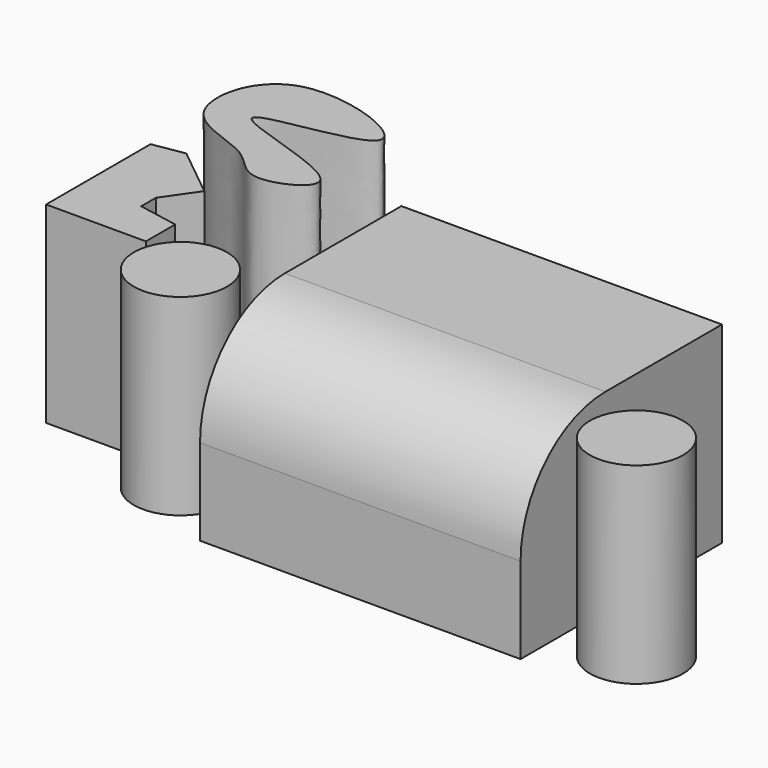
from build123d import *

# Parameters (mm, degrees)
F0_W          = 254
F0_H          = 199.4296851301
F1_DEPTH      = 127
F1_DEPTH_BACK = 25.4
F0_R          = 36.9167076332
F2_R          = 84.0098035435


with BuildPart() as f1:
    # F0 (on Top) → F1 (new body, two sides)
    with BuildSketch(Plane.XY) as f1_sk:
        Rectangle(F0_W, F0_H)
    extrude(amount=F1_DEPTH)
    extrude(f1_sk.sketch, amount=-F1_DEPTH_BACK)

    # F2
    f2_edges = [f1.edges().sort_by_distance(p)[0] for p in [
        (0, -99.714843, 127),
    ]]
    fillet(f2_edges, radius=F2_R)


with BuildPart() as f1b:
    # F0 (on Top) → F1, piece 2 (new body, two sides)
    with BuildSketch(Plane.XY) as f1_2_sk:
        with Locations((180.6791722775, -52.0094111562)):
            Circle(F0_R)
    extrude(amount=F1_DEPTH)
    extrude(f1_2_sk.sketch, amount=-F1_DEPTH_BACK)


with BuildPart() as f1c:
    # F0 (on Top) → F1, piece 3 (new body, two sides)
    with BuildSketch(Plane.XY) as f1_3_sk:
        with Locations((-180.6791722775, -52.0094111562)):
            Circle(F0_R)
    extrude(amount=F1_DEPTH)
    extrude(f1_3_sk.sketch, amount=-F1_DEPTH_BACK)


with BuildPart() as f1d:
    # F0 (on Top) → F1, piece 4 (new body, two sides)
    with BuildSketch(Plane.XY) as f1_4_sk:
        Polygon((-274.9486218491, 71.6777900635), (-300.0029325485, 67.5215050578), (-300.0029325485, -35.9554253519), (-220.9122776985, -35.9554253519), (-220.9122776985, -6.9555193186), (-252.5545881445, -1.0561305223), (-252.5545881445, 13.4762292728), (-234.7531467676, 39.1806922853), (-246.3792434373, 48.5801184517), (-256.987960374, 57.157016993), align=None)
    extrude(amount=F1_DEPTH)
    extrude(f1_4_sk.sketch, amount=-F1_DEPTH_BACK)


with BuildPart() as f1e:
    # F0 (on Top) → F1, piece 5 (new body, two sides)
    with BuildSketch(Plane.XY) as f1_5_sk:
        with BuildLine():
            add(Edge.make_bspline(
                [(-220.0824171305, 74.0046352148), (-205.9818826777, 73.4399267701), (-145.7408846012, 102.0283265768), (-347.6212532898, 139.1990573584), (-127.3727419924, 150.6390244482), (-297.0529805617, 216.5078520611), (-319.5354649355, 108.1167875823), (-244.7204966602, 100.5883134621), (-233.6255254199, 74.5470194517), (-220.0824171305, 74.0046352148)],
                knots=[0, 0, 0, 0, 0.1103152291, 0.2823987599, 0.4448061661, 0.611228252, 0.7572311552, 0.8940457825, 1, 1, 1, 1], degree=3))
        make_face()
    extrude(amount=F1_DEPTH)
    extrude(f1_5_sk.sketch, amount=-F1_DEPTH_BACK)


solid = Compound([f1.part, f1b.part, f1c.part, f1d.part, f1e.part])
